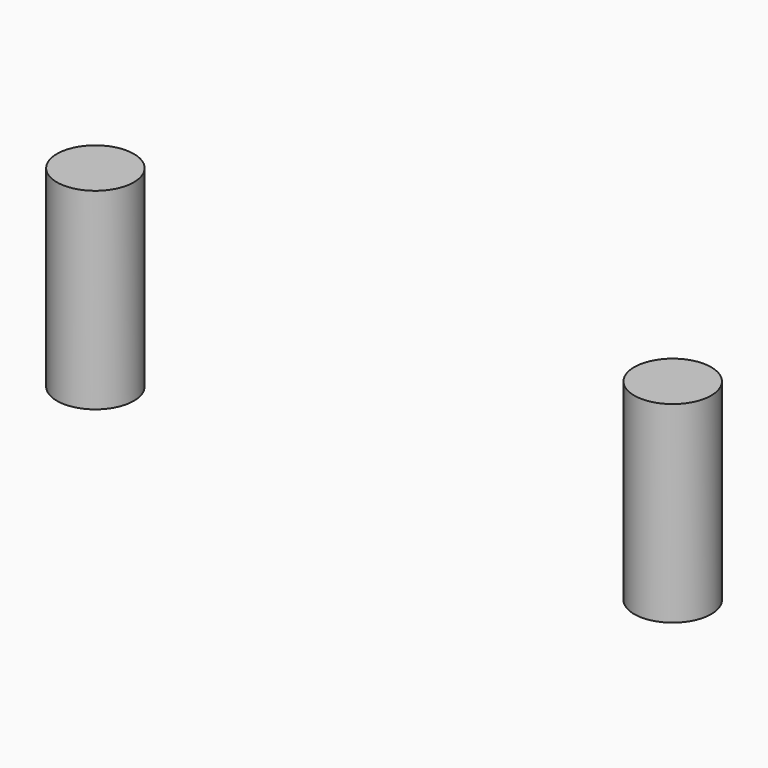
from build123d import *

# Parameters (mm, degrees)
CYLINDER039_R     = 2
CYLINDER039_DEPTH = 10
CYLINDER040_R     = 2
CYLINDER040_DEPTH = 10


with BuildPart() as cylinder039:
    # Cylinder039 → Cylinder039 (new body)
    with BuildSketch(Plane(origin=(-15, 18, 50), x_dir=(1, 0, 0), z_dir=(0, 0, 1))):
        Circle(CYLINDER039_R)
    extrude(amount=CYLINDER039_DEPTH)


with BuildPart() as fusion036012039029015:
    # Cylinder040 → Cylinder040 (new body)
    with BuildSketch(Plane(origin=(15, 18, 50), x_dir=(1, 0, 0), z_dir=(0, 0, 1))):
        Circle(CYLINDER040_R)
    extrude(amount=CYLINDER040_DEPTH)

    # Fusion036012039029014: union Cylinder039
    add(cylinder039.part)


with BuildPart() as fusion036012039029015_1:
    # Fusion036012039029014 placement: moved
    add(fusion036012039029015.part.moved(Location((0, 0, 1.3))))


solid = fusion036012039029015_1.part
